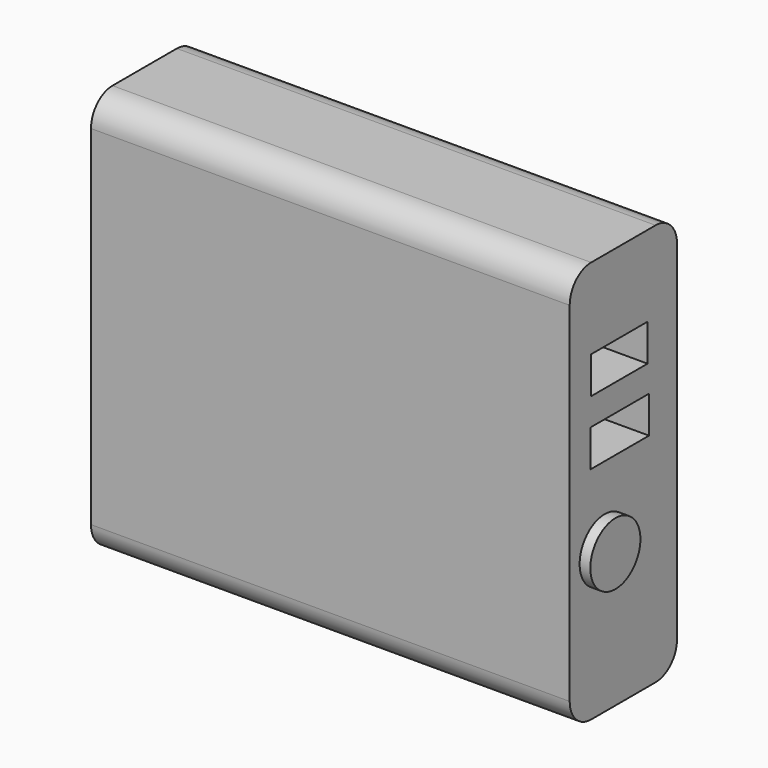
from build123d import *

# Parameters (mm, degrees)
F0_W     = 90.658814
F0_H     = 76.2
F1_DEPTH = 25.4
F2_R     = 5.08
F3_W     = 13.8
F3_H     = 7
F4_DEPTH = 38.608
F5_W     = 13.4
F5_H     = 7
F6_DEPTH = 20.066
F7_R     = 5.926284
F8_DEPTH = 2.032


with BuildPart() as f1:
    # F0 (on Front) → F1 (new body)
    with BuildSketch(Plane.XZ):
        Rectangle(F0_W, F0_H)
    extrude(amount=F1_DEPTH)

    # F2
    f2_edges = [f1.edges().sort_by_distance(p)[0] for p in [
        (0, -25.4, 38.1),
        (0, 0, 38.1),
        (0, 0, -38.1),
        (0, -25.4, -38.1),
    ]]
    fillet(f2_edges, radius=F2_R)

    # F3 (on face) → F4 (cut)
    with BuildSketch(Plane.YZ.offset(45.329407)):
        with Locations((-13.526871, 7.164022)):
            Rectangle(F3_W, F3_H)
    extrude(amount=-F4_DEPTH, mode=Mode.SUBTRACT)

    # F5 (on face) → F6 (cut)
    with BuildSketch(Plane.YZ.offset(45.329407)):
        with Locations((-13.670774, 19.304139)):
            Rectangle(F5_W, F5_H)
    extrude(amount=-F6_DEPTH, mode=Mode.SUBTRACT)

    # F7 (on face) → F8 (join)
    with BuildSketch(Plane.YZ.offset(45.329407)):
        with Locations((-17.124441, -11.080521)):
            Circle(F7_R)
    extrude(amount=F8_DEPTH)


solid = f1.part
